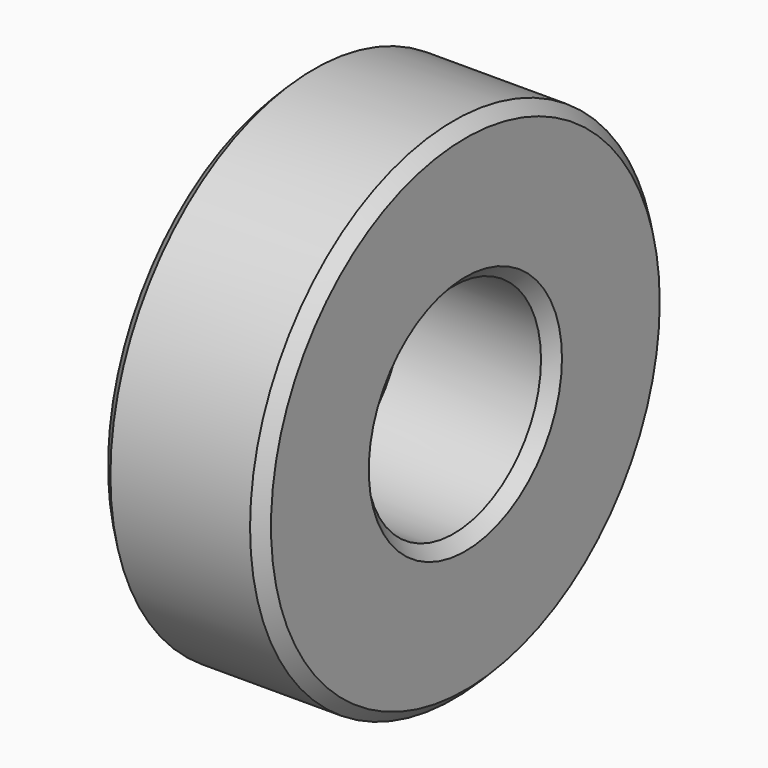
from build123d import *

# Parameters (mm, degrees)
F0_R     = 11.1125
F0_R_2   = 4.7625
F1_DEPTH = 7.112
F2_SIZE  = 0.508


with BuildPart() as f1:
    # F0 (on Right) → F1 (new body)
    with BuildSketch(Plane.YZ):
        with Locations((-52.88154, 0)):
            Circle(F0_R)
        with Locations((-52.88154, 0)):
            Circle(F0_R_2, mode=Mode.SUBTRACT)
    extrude(amount=F1_DEPTH)

    # F2
    f2_edges = [f1.edges().sort_by_distance(p)[0] for p in [
        (7.112, -63.99404, 0),
        (7.112, -57.64404, 0),
        (0, -63.99404, 0),
        (0, -57.64404, 0),
    ]]
    chamfer(f2_edges, length=F2_SIZE)


solid = f1.part
